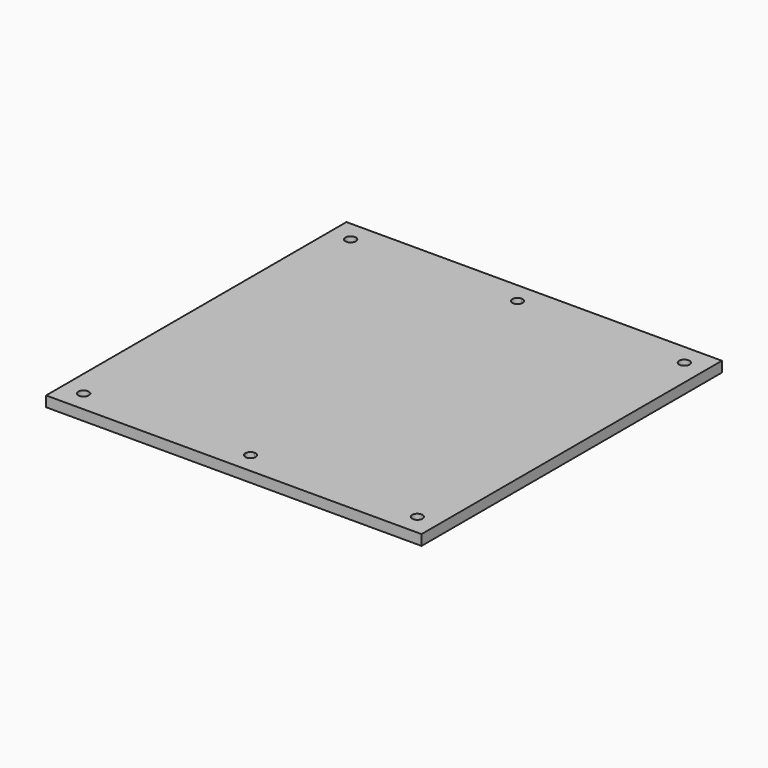
from build123d import *

# Parameters (mm, degrees)
F0_W     = 228.6
F0_H     = 228.6
F1_DEPTH = 6.35
F2_R     = 3.175
F3_DEPTH = 25.4


with BuildPart() as f1:
    # F0 (on Top) → F1 (new body)
    with BuildSketch(Plane.XY):
        with Locations((114.3, 114.3)):
            Rectangle(F0_W, F0_H)
    extrude(amount=F1_DEPTH)

    # F2 (on face) → F3 (cut)
    with BuildSketch(Plane.XY.offset(6.35)):
        with BuildLine():
            ThreePointArc((15.875, 12.7), (12.7, 15.875), (9.525, 12.7))
            Line((9.525, 12.7), (15.875, 12.7))
        make_face()
        with BuildLine():
            ThreePointArc((114.3, 219.075), (111.125, 215.9), (114.3, 212.725))
            Line((114.3, 212.725), (114.3, 219.075))
        make_face()
        with BuildLine():
            Line((114.3, 219.075), (114.3, 212.725))
            ThreePointArc((114.3, 212.725), (116.545064, 213.654936), (117.475, 215.9))
            ThreePointArc((117.475, 215.9), (116.545064, 218.145064), (114.3, 219.075))
        make_face()
        with BuildLine():
            ThreePointArc((219.075, 12.7), (215.9, 15.875), (212.725, 12.7))
            Line((212.725, 12.7), (219.075, 12.7))
        make_face()
        with BuildLine():
            Line((219.075, 12.7), (212.725, 12.7))
            ThreePointArc((212.725, 12.7), (215.9, 9.525), (219.075, 12.7))
        make_face()
        with BuildLine():
            ThreePointArc((114.3, 15.875), (112.054936, 14.945064), (111.125, 12.7))
            Line((111.125, 12.7), (114.3, 12.7))
            Line((114.3, 12.7), (114.3, 15.875))
        make_face()
        with BuildLine():
            Line((114.3, 12.7), (111.125, 12.7))
            ThreePointArc((111.125, 12.7), (112.054936, 10.454936), (114.3, 9.525))
            Line((114.3, 9.525), (114.3, 12.7))
        make_face()
        with BuildLine():
            Line((15.875, 12.7), (9.525, 12.7))
            ThreePointArc((9.525, 12.7), (12.7, 9.525), (15.875, 12.7))
        make_face()
        with BuildLine():
            Line((114.3, 15.875), (114.3, 12.7))
            Line((114.3, 12.7), (117.475, 12.7))
            ThreePointArc((117.475, 12.7), (116.545064, 14.945064), (114.3, 15.875))
        make_face()
        with BuildLine():
            Line((117.475, 12.7), (114.3, 12.7))
            Line((114.3, 12.7), (114.3, 9.525))
            ThreePointArc((114.3, 9.525), (116.545064, 10.454936), (117.475, 12.7))
        make_face()
        with Locations((12.7, 215.9)):
            Circle(F2_R)
        with Locations((215.9, 215.9)):
            Circle(F2_R)
    extrude(amount=-F3_DEPTH, mode=Mode.SUBTRACT)


solid = f1.part
